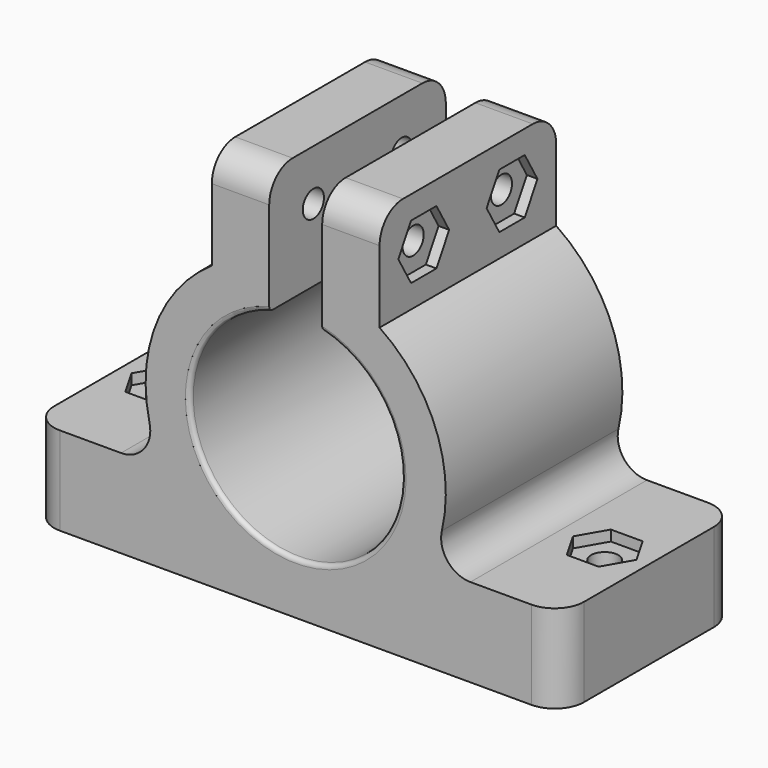
from build123d import *

# Parameters (mm, degrees)
F1_DEPTH  = 25
F2_R      = 1.55
F3_DEPTH  = 25
F4_R      = 1.5
F5_DEPTH  = 25
F6_R      = 3.313414
F9_DEPTH  = 1.2
F8_R      = 1.5
F10_DEPTH = 1.2
F12_DEPTH = 1.2
F13_R     = 0.5


with BuildPart() as f1:
    # F0 (on Front) → F1 (new body)
    with BuildSketch(Plane.XZ):
        with BuildLine():
            Line((-30, -29.771222), (30, -29.771222))
            Line((30, -29.771222), (30, -19.771222))
            Line((30, -19.771222), (15.039818, -19.771222))
            ThreePointArc((15.039818, -19.771222), (16.48651, -7.699644), (9.500786, 2.251013))
            Line((9.500786, 2.251013), (9.500786, 13.742813))
            Line((9.500786, 13.742813), (3, 13.742813))
            Line((3, 13.742813), (3, 4.886871))
            Line((3, 4.886871), (3, -0.22738))
            ThreePointArc((3, -0.22738), (0, -23.84633), (-3, -0.22738))
            Line((-3, -0.22738), (-3, 4.886871))
            Line((-3, 4.886871), (-3, 13.742813))
            Line((-3, 13.742813), (-9.500786, 13.742813))
            Line((-9.500786, 13.742813), (-9.500786, 2.251013))
            ThreePointArc((-9.500786, 2.251013), (-16.48651, -7.699644), (-15.039818, -19.771222))
            Line((-15.039818, -19.771222), (-30, -19.771222))
            Line((-30, -19.771222), (-30, -29.771222))
        make_face()
    extrude(amount=F1_DEPTH)

    # F2 (on face) → F3 (cut)
    with BuildSketch(Plane.XY.offset(-19.771222)):
        with Locations((-25, -12.5)):
            Circle(F2_R)
        with Locations((25, -12.5)):
            Circle(F2_R)
    extrude(amount=-F3_DEPTH, mode=Mode.SUBTRACT)

    # F4 (on face) → F5 (cut)
    with BuildSketch(Plane.YZ.offset(9.500786)):
        with Locations((-18.75, 7.996913)):
            Circle(F4_R)
        with Locations((-6.25, 7.996913)):
            Circle(F4_R)
    extrude(amount=-F5_DEPTH, mode=Mode.SUBTRACT)

    # F6
    f6_edges = [f1.edges().sort_by_distance(p)[0] for p in [
        (-6.250393, -25, 13.742813),
        (6.250393, -25, 13.742813),
        (-6.250393, 0, 13.742813),
        (6.250393, 0, 13.742813),
        (30, -25, -24.771222),
        (30, 0, -24.771222),
        (-30, 0, -24.771222),
        (-30, -25, -24.771222),
        (15.039818, -12.5, -19.771222),
        (-15.039818, -12.5, -19.771222),
    ]]
    fillet(f6_edges, radius=F6_R)

    # F7 (on face) → F9 (cut)
    with BuildSketch(Plane.YZ.offset(9.500786)):
        Polygon((-20.55, 4.879222), (-16.95, 4.879222), (-15.15, 7.996913), (-16.95, 11.114605), (-20.55, 11.114605), (-22.35, 7.996913), align=None)
        Polygon((-4.45, 11.114605), (-8.05, 11.114605), (-9.85, 7.996913), (-8.05, 4.879222), (-4.45, 4.879222), (-2.65, 7.996913), align=None)
    extrude(amount=-F9_DEPTH, mode=Mode.SUBTRACT)

    # F8 (on face) → F10 (cut)
    with BuildSketch(Plane(origin=(-9.500786, 0, 0), x_dir=(0, -1, 0), z_dir=(-1, 0, 0))):
        Polygon((4.45, 4.879222), (8.05, 4.879222), (9.85, 7.996913), (8.05, 11.114605), (4.45, 11.114605), (2.65, 7.996913), align=None)
        with Locations((6.25, 7.996913)):
            Circle(F8_R, mode=Mode.SUBTRACT)
        Polygon((20.55, 11.114605), (16.95, 11.114605), (15.15, 7.996913), (16.95, 4.879222), (20.55, 4.879222), (22.35, 7.996913), align=None)
        with Locations((18.75, 7.996913)):
            Circle(F8_R, mode=Mode.SUBTRACT)
    extrude(amount=-F10_DEPTH, mode=Mode.SUBTRACT)

    # F11 (on face) → F12 (cut)
    with BuildSketch(Plane.XY.offset(-19.771222)):
        Polygon((26.8, -9.382309), (23.2, -9.382309), (21.4, -12.5), (23.2, -15.617691), (26.8, -15.617691), (28.6, -12.5), align=None)
        Polygon((-23.2, -15.617691), (-21.4, -12.5), (-23.2, -9.382309), (-26.8, -9.382309), (-28.6, -12.5), (-26.8, -15.617691), align=None)
    extrude(amount=-F12_DEPTH, mode=Mode.SUBTRACT)

    # F13
    f13_edges = [f1.edges().sort_by_distance(p)[0] for p in [
        (0, 0, -23.84633),
        (0, -25, -23.84633),
    ]]
    fillet(f13_edges, radius=F13_R)


solid = f1.part
